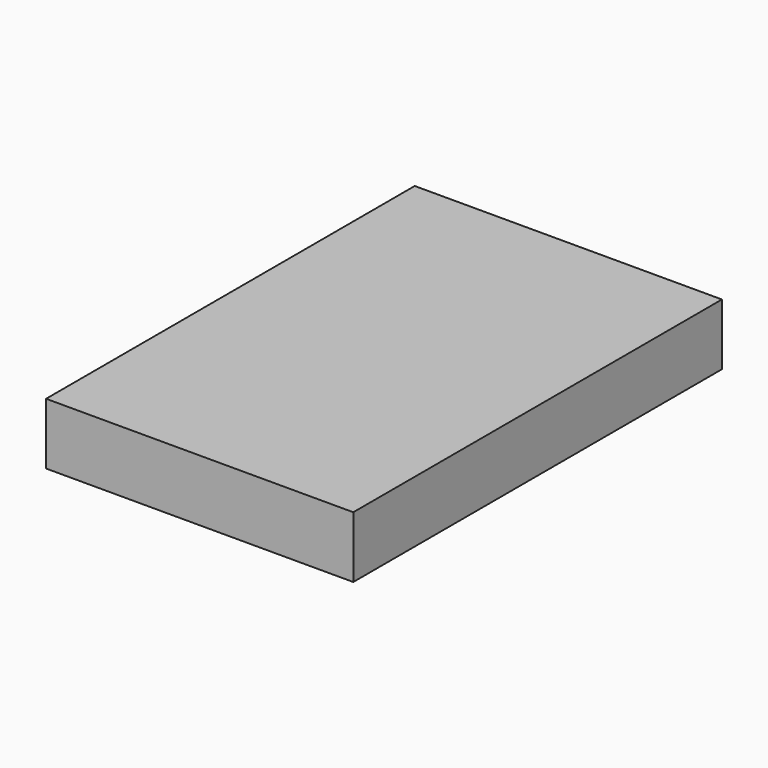
from build123d import *

# Parameters (mm, degrees)
F0_W      = 100
F0_H      = 10
F1_DEPTH  = 8
F1_FACE_W = 100
F1_FACE_H = 8
F2_DEPTH  = 50
F2_FACE_W = 60
F2_FACE_H = 8
F3_DEPTH  = 60


with BuildPart() as f1:
    # F0 (on Top) → F1 (new body)
    with BuildSketch(Plane.XY):
        Rectangle(F0_W, F0_H)
    extrude(amount=F1_DEPTH)

    # F1_face (on face) → F2 (join)
    with BuildSketch(Plane(origin=(0, -5, 4), x_dir=(1, 0, 0), z_dir=(0, -1, 0))):
        Rectangle(F1_FACE_W, F1_FACE_H)
    extrude(amount=F2_DEPTH)

    # F2_face (on face) → F3 (cut)
    with BuildSketch(Plane(origin=(-50, -25, 4), x_dir=(0, -1, 0), z_dir=(-1, 0, 0))):
        Rectangle(F2_FACE_W, F2_FACE_H)
    extrude(amount=-F3_DEPTH, mode=Mode.SUBTRACT)


solid = f1.part
